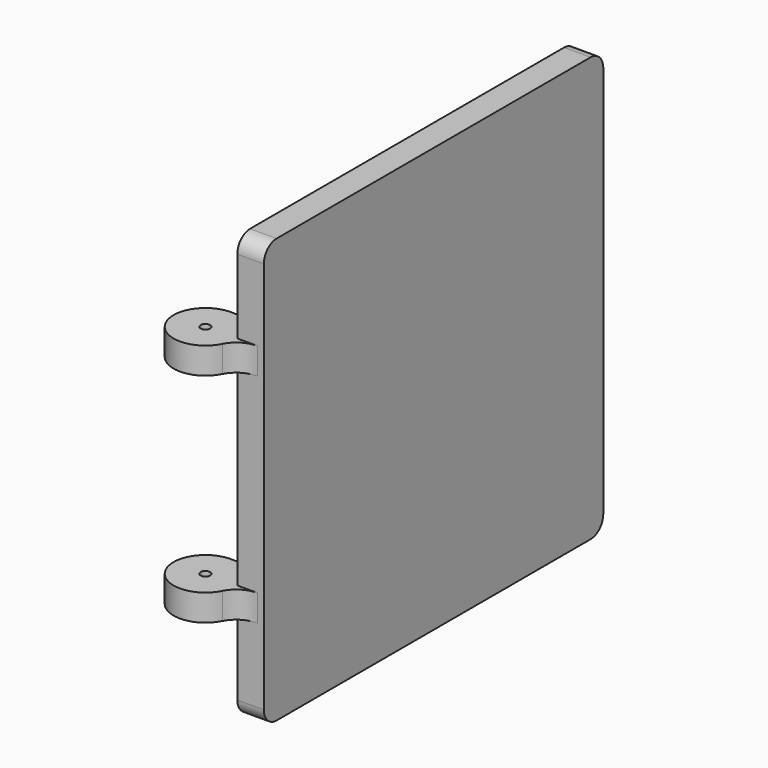
from build123d import *

# Parameters (mm, degrees)
F0_R          = 6
F0_R_2        = 0.9
F1_DEPTH      = 5
F3_R          = 6
F3_R_2        = 0.9
F4_DEPTH      = 5
F5_W          = 5
F5_H          = 80
F6_DEPTH      = 63
F6_DEPTH_BACK = 17
F7_R          = 5
F8_R          = 3


with BuildPart() as f1:
    # F0 (on Top) → F1 (new body)
    with BuildSketch(Plane.XY):
        Circle(F0_R)
        Circle(F0_R_2, mode=Mode.SUBTRACT)
    extrude(amount=F1_DEPTH)



with BuildPart() as f4:
    # F3 (on offset) → F4 (new body)
    with BuildSketch(Plane.XY.offset(46)):
        Circle(F3_R)
        Circle(F3_R_2, mode=Mode.SUBTRACT)
        Circle(F3_R)
        Circle(F3_R_2, mode=Mode.SUBTRACT)
    extrude(amount=-F4_DEPTH)


with BuildPart() as f1_1:
    add(f1.part)

    add(f4.part)  # F6 merges F4
    # F5 (on Top) → F6 (join, two sides)
    with BuildSketch(Plane.XY) as f6_sk:
        with Locations((8.4999, 40.012752)):
            Rectangle(F5_W, F5_H)
    extrude(amount=F6_DEPTH)
    extrude(f6_sk.sketch, amount=-F6_DEPTH_BACK)

    # F7
    f7_edges = [f1_1.edges().sort_by_distance(p)[0] for p in [
        (5.9999, 0.034641, 43.5),
        (5.9999, 0.034641, 2.5),
        (5.999986, 0.012752, 2.5),
        (5.999986, 0.012752, 43.5),
    ]]
    fillet(f7_edges, radius=F7_R)

    # F8
    f8_edges = [f1_1.edges().sort_by_distance(p)[0] for p in [
        (8.4999, 80.012752, 63),
        (8.4999, 0.012752, 63),
        (8.4999, 80.012752, -17),
        (8.4999, 0.012752, -17),
    ]]
    fillet(f8_edges, radius=F8_R)


solid = f1_1.part
